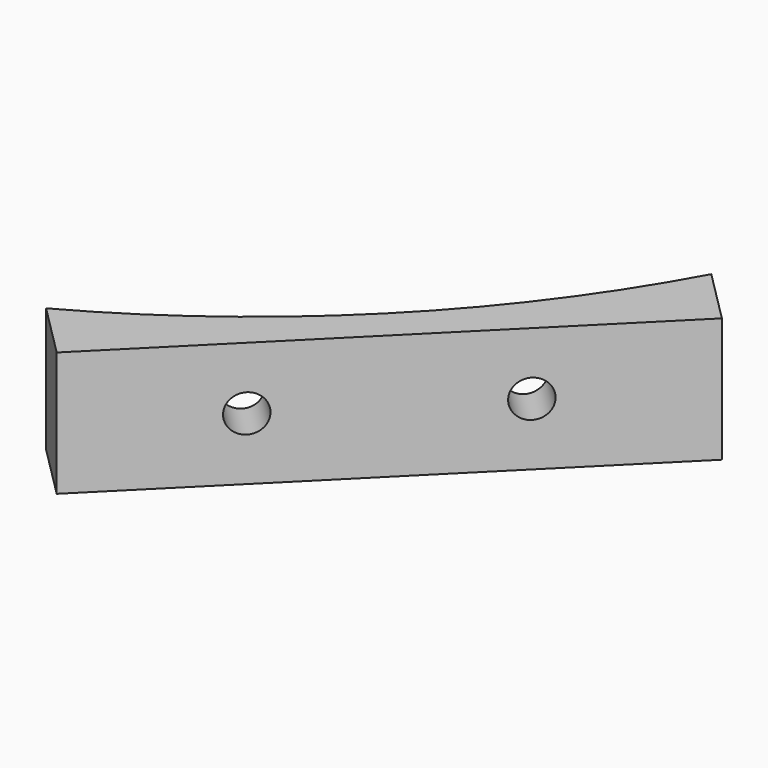
from build123d import *

# Parameters (mm, degrees)
CYLINDER1996_R               = 1.5
CYLINDER1996_DEPTH           = 50
COMPOUND1077_PLACEMENT_ANGLE = 225
CYLINDER1997_R               = 1.5
CYLINDER1997_DEPTH           = 50
COMPOUND1078_PLACEMENT_ANGLE = 225
CYLINDER1995_R               = 74
CYLINDER1995_DEPTH           = 40
BOX987_W                     = 42
BOX987_H                     = 10
BOX987_DEPTH                 = 10
COMPOUND1076_PLACEMENT_ANGLE = 225


with BuildPart() as compound1077:
    # Cylinder1996 → Cylinder1996 (new body)
    with BuildSketch(Plane(origin=(9, 100, 59), x_dir=(1, 0, 0), z_dir=(0, -1, 0))):
        Circle(CYLINDER1996_R)
    extrude(amount=CYLINDER1996_DEPTH)


with BuildPart() as compound1077_1:
    # Compound1077 placement: moved
    add(compound1077.part.rotate(Axis((0, 0, 0), (0, 0, 1)), COMPOUND1077_PLACEMENT_ANGLE))


with BuildPart() as compound1079:
    # Cylinder1997 → Cylinder1997 (new body)
    with BuildSketch(Plane(origin=(-9, 100, 59), x_dir=(1, 0, 0), z_dir=(0, -1, 0))):
        Circle(CYLINDER1997_R)
    extrude(amount=CYLINDER1997_DEPTH)


with BuildPart() as compound1079_1:
    # Compound1078 placement: moved
    add(compound1079.part.rotate(Axis((0, 0, 0), (0, 0, 1)), COMPOUND1078_PLACEMENT_ANGLE))

    # Compound1079: union Compound1077
    add(compound1077_1.part)


with BuildPart() as compound1079_2:
    # Compound1079 placement: moved
    add(compound1079_1.part.moved(Location((0, 0, 1))))


with BuildPart() as obj1:
    # Cylinder1995 → Cylinder1995 (new body)
    with BuildSketch(Plane.XY.offset(44)):
        Circle(CYLINDER1995_R)
    extrude(amount=CYLINDER1995_DEPTH)


with BuildPart() as cut673:
    # Box987 → Box987 (new body)
    with BuildSketch(Plane(origin=(-21, -23, 22), x_dir=(1, 0, 0), z_dir=(0, 0, 1))):
        with Locations((21, 5)):
            Rectangle(BOX987_W, BOX987_H)
    extrude(amount=BOX987_DEPTH)


with BuildPart() as cut673_1:
    # Compound1076 placement: moved
    add(cut673.part.moved(Location((63.64, -63.64, 43))).rotate(Axis((63.64, -63.64, 43), (0, 0, 1)), COMPOUND1076_PLACEMENT_ANGLE))

    # Cut672: cut obj1
    add(obj1.part, mode=Mode.SUBTRACT)


with BuildPart() as cut673_2:
    # Cut672 placement: moved
    add(cut673_1.part.moved(Location((0, 0, -10))))

    # Cut673: cut Compound1079
    add(compound1079_2.part, mode=Mode.SUBTRACT)


solid = cut673_2.part
